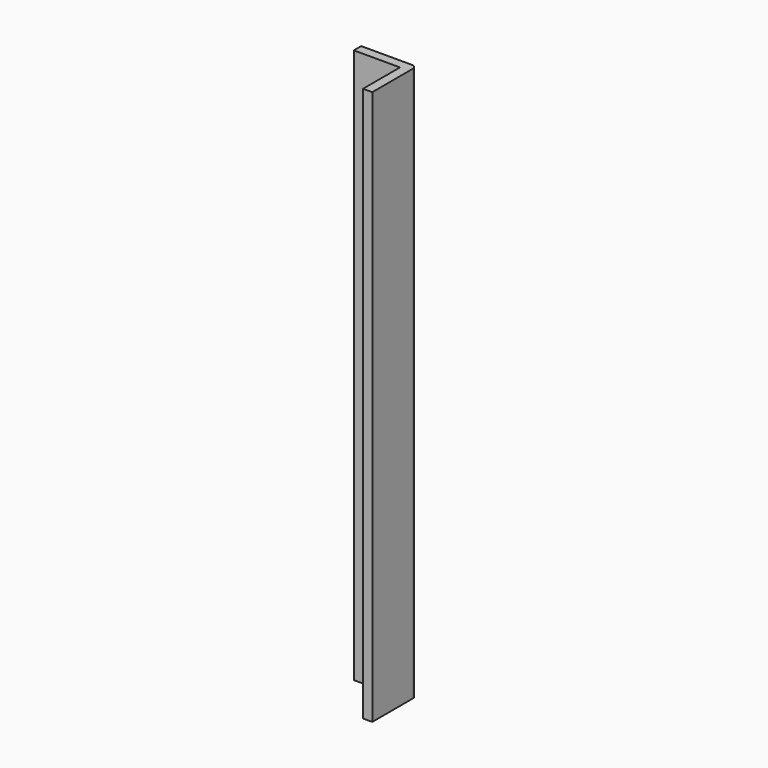
from build123d import *

# Parameters (mm, degrees)
F1_DEPTH = 300


with BuildPart() as f1:
    # F0 (on Top) → F1 (new body)
    with BuildSketch(Plane.XY):
        with BuildLine():
            Line((12.5, 15), (-15, 15))
            Line((-15, 15), (-15, 10))
            Line((-15, 10), (10, 10))
            Line((10, 10), (10, -15))
            Line((10, -15), (15, -15))
            Line((15, -15), (15, 12.5))
            ThreePointArc((15, 12.5), (14.267767, 14.267767), (12.5, 15))
        make_face()
    extrude(amount=F1_DEPTH)


solid = f1.part
